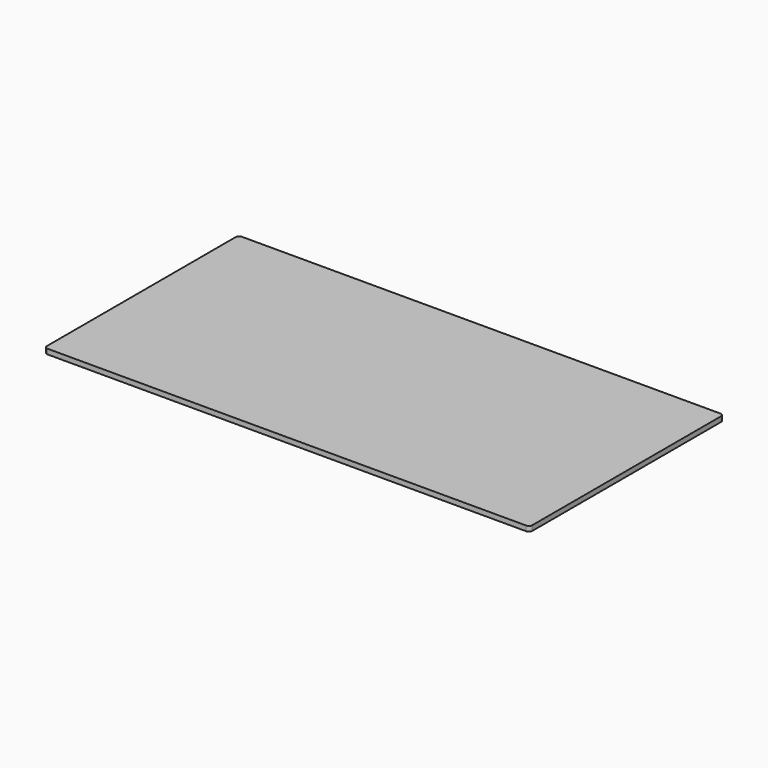
from build123d import *

# Parameters (mm, degrees)
F0_W     = 914.4
F0_H     = 457.2
F1_DEPTH = 9.525
F2_R     = 6.35


with BuildPart() as f1:
    # F0 (on Top) → F1 (new body)
    with BuildSketch(Plane.XY):
        with Locations((53.707018, 228.6)):
            Rectangle(F0_W, F0_H)
    extrude(amount=-F1_DEPTH)

    # F2
    f2_edges = [f1.edges().sort_by_distance(p)[0] for p in [
        (-403.492982, 457.2, -4.7625),
        (-403.492982, 0, -4.7625),
        (510.907018, 0, -4.7625),
        (510.907018, 457.2, -4.7625),
    ]]
    fillet(f2_edges, radius=F2_R)


solid = f1.part
